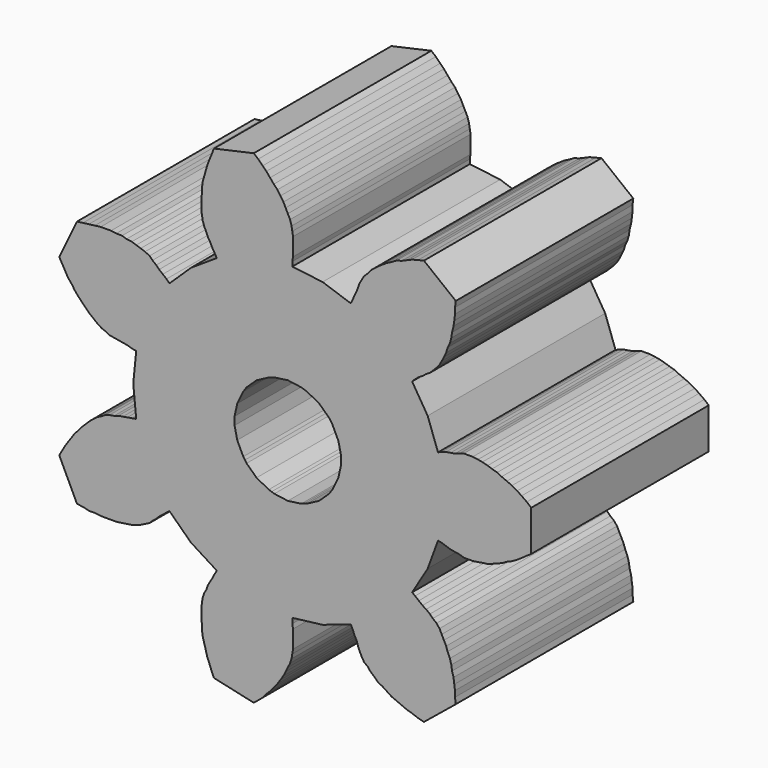
from build123d import *

# Parameters (mm, degrees)
F1_DEPTH = 25.4


with BuildPart() as f1:
    # F0 (on Front) → F1 (new body)
    with BuildSketch(Plane.XZ):
        Polygon((14.055344, 15.240483), (15.83309, 18.203393), (17.018, 21.421065), (17.44091, 21.335721), (17.949672, 21.166049), (18.456656, 20.998155), (18.965418, 20.912303), (19.473672, 20.828483), (19.98091, 20.659065), (20.489418, 20.659065), (20.997672, 20.659065), (21.590254, 20.743139), (22.097492, 20.828483), (22.68982, 20.912303), (23.198582, 21.081975), (23.79091, 21.335721), (24.299672, 21.505139), (24.892, 21.843975), (25.484582, 22.097721), (26.077418, 22.436811), (26.585672, 22.775647), (27.178254, 23.198811), (27.685238, 23.537647), (27.685238, 28.193975), (27.178254, 28.617139), (26.585672, 29.040049), (26.077418, 29.379139), (25.484582, 29.717975), (24.892, 29.971721), (24.299672, 30.226737), (23.79091, 30.479975), (23.198582, 30.649901), (22.68982, 30.819065), (22.097492, 30.988737), (21.590254, 31.072811), (20.997672, 31.156631), (20.489418, 31.156631), (19.98091, 31.156631), (19.473672, 30.988737), (18.965418, 30.819065), (18.456656, 30.733721), (17.949672, 30.649901), (17.44091, 30.479975), (17.018, 30.310811), (15.83309, 33.612303), (14.055344, 36.491393), (14.39291, 36.829975), (14.817344, 37.169065), (15.240254, 37.422811), (15.663418, 37.761901), (16.086582, 38.015393), (16.425418, 38.354483), (16.848582, 38.777393), (17.187672, 39.200303), (17.44091, 39.623467), (17.694656, 40.131975), (17.949672, 40.640483), (18.11909, 41.233065), (18.372582, 41.740049), (18.542, 42.332631), (18.626328, 42.926737), (18.795746, 43.603393), (18.88109, 44.195721), (18.965418, 44.873901), (18.965418, 45.550303), (19.050762, 46.228483), (15.409926, 49.107065), (14.732, 48.937901), (14.055344, 48.767975), (13.461238, 48.514737), (12.868656, 48.259721), (12.276328, 48.090049), (11.683746, 47.752483), (11.176762, 47.497721), (10.668, 47.160155), (10.159492, 46.821065), (9.736582, 46.481975), (9.313418, 46.143139), (8.974328, 45.719975), (8.551418, 45.296811), (8.297672, 44.873901), (8.04291, 44.449467), (7.873238, 43.942483), (7.705344, 43.519065), (7.450328, 43.010811), (7.28091, 42.587901), (7.027418, 42.079139), (3.809492, 43.179975), (0.338328, 43.603393), (0.338328, 44.111647), (0.423672, 44.619139), (0.423672, 45.127393), (0.423672, 45.635647), (0.423672, 46.143139), (0.423672, 46.651393), (0.338328, 47.160155), (0.254254, 47.667139), (0.084582, 48.259721), (-0.16891, 48.767975), (-0.423672, 49.276737), (-0.677418, 49.783721), (-1.016254, 50.292483), (-1.355344, 50.799467), (-1.778254, 51.223901), (-2.201418, 51.731139), (-2.624582, 52.239393), (-3.047746, 52.662303), (-3.556, 53.171065), (-4.064762, 53.593975), (-8.635746, 52.578483), (-8.890508, 51.900303), (-9.144, 51.307975), (-9.397746, 50.631573), (-9.56691, 50.038737), (-9.736582, 49.444631), (-9.906, 48.852303), (-9.990074, 48.259721), (-9.990074, 47.667139), (-10.075672, 47.074811), (-10.075672, 46.481975), (-10.075672, 45.889393), (-9.990074, 45.381139), (-9.906, 44.873901), (-9.736582, 44.365393), (-9.48309, 43.856631), (-9.313418, 43.433721), (-9.06018, 43.010811), (-8.80491, 42.502303), (-8.551418, 42.079139), (-8.29818, 41.655975), (-11.260582, 39.709065), (-13.716254, 37.338737), (-14.055344, 37.676303), (-14.478508, 38.015393), (-14.901418, 38.354483), (-15.240508, 38.693573), (-15.663418, 39.031139), (-16.002508, 39.369975), (-16.509746, 39.623467), (-17.018, 39.793139), (-17.526762, 39.962303), (-18.033746, 40.131975), (-18.626328, 40.216049), (-19.134582, 40.385721), (-19.811238, 40.385721), (-20.405344, 40.471065), (-20.99818, 40.471065), (-21.590508, 40.471065), (-22.26691, 40.385721), (-22.94509, 40.301393), (-23.621746, 40.216049), (-24.299672, 40.131975), (-26.33091, 35.898811), (-25.993344, 35.305975), (-25.654254, 34.713393), (-25.315418, 34.121065), (-24.892508, 33.612303), (-24.553418, 33.105573), (-24.13, 32.596811), (-23.70709, 32.173901), (-23.282656, 31.749467), (-22.859746, 31.326303), (-22.436582, 30.988737), (-22.013418, 30.649901), (-21.50491, 30.310811), (-21.082, 30.141393), (-20.573238, 29.887647), (-20.066254, 29.802303), (-19.558, 29.717975), (-19.049238, 29.632631), (-18.542508, 29.548811), (-18.033746, 29.379139), (-17.526762, 29.295065), (-17.864328, 25.907975), (-17.526762, 22.436811), (-18.033746, 22.352483), (-18.542508, 22.267139), (-19.049238, 22.183065), (-19.558, 22.097721), (-20.066254, 21.928049), (-20.573238, 21.843975), (-21.082, 21.674811), (-21.50491, 21.421065), (-22.013418, 21.166049), (-22.436582, 20.828483), (-22.859746, 20.489393), (-23.282656, 20.066483), (-23.70709, 19.643573), (-24.13, 19.134811), (-24.553418, 18.711901), (-24.892508, 18.203393), (-25.315418, 17.610811), (-25.654254, 17.102303), (-25.993344, 16.509721), (-26.33091, 15.917139), (-24.299672, 11.683721), (-23.621746, 11.599901), (-22.94509, 11.429975), (-22.26691, 11.429975), (-21.590508, 11.344631), (-20.99818, 11.344631), (-20.405344, 11.344631), (-19.811238, 11.344631), (-19.134582, 11.429975), (-18.626328, 11.514303), (-18.033746, 11.599901), (-17.526762, 11.769065), (-17.018, 11.938737), (-16.509746, 12.192483), (-16.002508, 12.445721), (-15.663418, 12.784811), (-15.240508, 13.123901), (-14.901418, 13.461467), (-14.478508, 13.800303), (-14.055344, 14.139393), (-13.716254, 14.393139), (-11.260582, 12.022811), (-8.29818, 10.159721), (-8.551418, 9.736811), (-8.80491, 9.228049), (-9.06018, 8.805139), (-9.313418, 8.381975), (-9.48309, 7.873467), (-9.736582, 7.450303), (-9.906, 6.943573), (-9.990074, 6.434811), (-10.075672, 5.842483), (-10.075672, 5.333721), (-10.075672, 4.741393), (-9.990074, 4.148811), (-9.990074, 3.555975), (-9.906, 2.963393), (-9.736582, 2.371065), (-9.56691, 1.778483), (-9.397746, 1.100303), (-9.144, 0.507975), (-8.890508, -0.168427), (-8.635746, -0.761263), (-4.064762, -1.778279), (-3.556, -1.355369), (-3.047746, -0.930935), (-2.624582, -0.423697), (-2.201418, -0.000533), (-1.778254, 0.507975), (-1.355344, 1.016483), (-1.016254, 1.523467), (-0.677418, 2.031975), (-0.423672, 2.540483), (-0.16891, 3.047721), (0.084582, 3.555975), (0.254254, 4.064737), (0.338328, 4.571721), (0.423672, 5.079975), (0.423672, 5.588737), (0.423672, 6.095721), (0.423672, 6.604483), (0.423672, 7.111467), (0.338328, 7.619975), (0.338328, 8.212303), (3.809492, 8.635721), (7.027418, 9.736811), (7.28091, 9.228049), (7.450328, 8.805139), (7.705344, 8.298155), (7.873238, 7.789393), (8.04291, 7.366483), (8.297672, 6.857975), (8.551418, 6.434811), (8.974328, 6.095721), (9.313418, 5.672811), (9.736582, 5.333721), (10.159492, 4.910811), (10.668, 4.657065), (11.176762, 4.317975), (11.683746, 3.979139), (12.276328, 3.725647), (12.868656, 3.472155), (13.461238, 3.217139), (14.055344, 3.047721), (14.732, 2.793975), (15.409926, 2.624811), (19.050762, 5.588737), (18.965418, 6.265393), (18.965418, 6.943573), (18.88109, 7.535901), (18.795746, 8.212303), (18.626328, 8.805139), (18.542, 9.397721), (18.372582, 9.990049), (18.11909, 10.582631), (17.949672, 11.091393), (17.694656, 11.599901), (17.44091, 12.106631), (17.187672, 12.615393), (16.848582, 13.038303), (16.425418, 13.377393), (16.086582, 13.716483), (15.663418, 14.055573), (15.240254, 14.309065), (14.817344, 14.648155), (14.39291, 14.985721), align=None)
        Polygon((5.926328, 26.369493), (5.926328, 25.907975), (5.926328, 25.447727), (5.618988, 24.066983), (4.931156, 22.628327), (4.74091, 22.352483), (4.549394, 22.078417), (3.407156, 20.998155), (2.009648, 20.256475), (1.69291, 20.150303), (1.374394, 20.045655), (-0.17018, 19.833565), (-1.715008, 20.045655), (-2.032, 20.150303), (-2.350262, 20.256475), (-3.747516, 20.998155), (-4.890008, 22.078417), (-5.08, 22.352483), (-5.271516, 22.628327), (-5.959602, 24.066983), (-6.265418, 25.447727), (-6.265418, 25.907975), (-6.265418, 26.369493), (-5.959602, 27.750237), (-5.271516, 29.190417), (-5.08, 29.464737), (-4.890008, 29.740327), (-3.747516, 30.819065), (-2.350262, 31.560745), (-2.032, 31.665393), (-1.715008, 31.771565), (-0.17018, 31.983655), (1.374394, 31.771565), (1.69291, 31.665393), (2.009648, 31.560745), (3.407156, 30.819065), (4.549394, 29.740327), (4.74091, 29.464737), (4.931156, 29.190417), (5.618988, 27.750237), align=None, mode=Mode.SUBTRACT)
    extrude(amount=F1_DEPTH)


solid = f1.part
